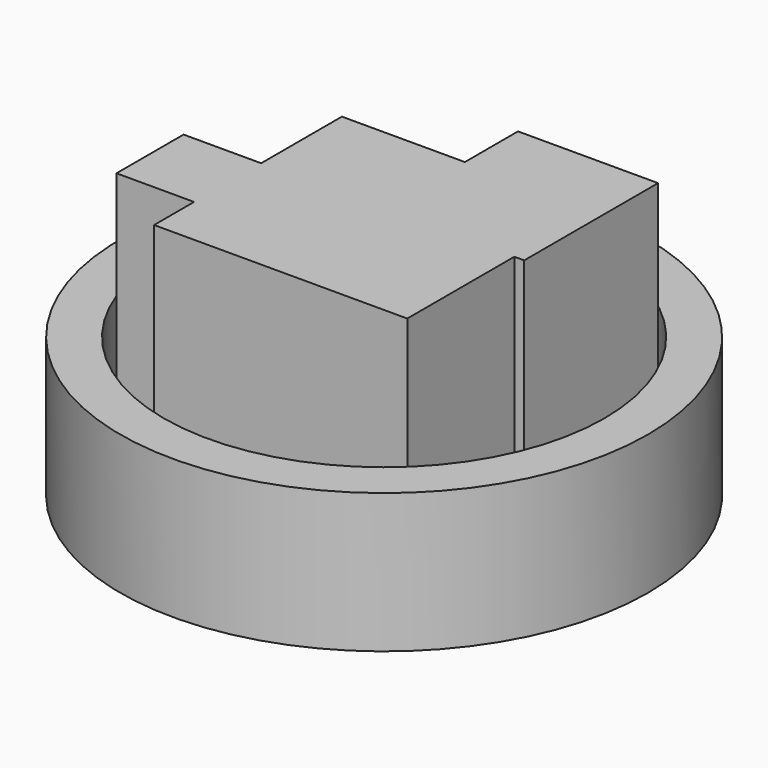
from build123d import *

# Parameters (mm, degrees)
F0_R     = 634.968711353
F1_DEPTH = 335.28
F2_R     = 529.9486766213
F3_DEPTH = 337.82
F4_W     = 295.791476965
F4_H     = 201.6759961843
F4_W_2   = 313.1909668446
F4_H_2   = 242.8020834923
F4_W_3   = 186.6491734982
F5_DEPTH = 607.06


with BuildPart() as f1:
    # F0 (on Top) → F1 (new body)
    with BuildSketch(Plane.XY):
        Circle(F0_R)
    extrude(amount=F1_DEPTH)

    # F2 (on Top) → F3 (cut)
    with BuildSketch(Plane.XY):
        Circle(F2_R)
    extrude(amount=F3_DEPTH, mode=Mode.SUBTRACT)


with BuildPart() as f5:
    # F4 (on Top) → F5 (new body)
    with BuildSketch(Plane.XY):
        with Locations((-147.8957384825, -100.8379980922)):
            Rectangle(F4_W, F4_H)
        Polygon((313.1909668446, 0), (0, 0), (0, -201.6759961843), (-295.791476965, -201.6759961843), (-295.791476965, -321.8907117844), (313.1909668446, -321.8907117844), align=None)
        with Locations((156.5954834223, 121.4010417461)):
            Rectangle(F4_W_2, F4_H_2)
        with Locations((-147.8957384825, 121.4010417461)):
            Rectangle(F4_W, F4_H_2)
        with Locations((-389.116063714, -100.8379980922)):
            Rectangle(F4_W_3, F4_H)
        Polygon((313.1909668446, 242.8020834923), (313.1909668446, 0), (336.9175493717, 0), (336.9175493717, 402.5610983372), (0, 402.5610983372), (0, 242.8020834923), align=None)
    extrude(amount=F5_DEPTH)


solid = Compound([f1.part, f5.part])
